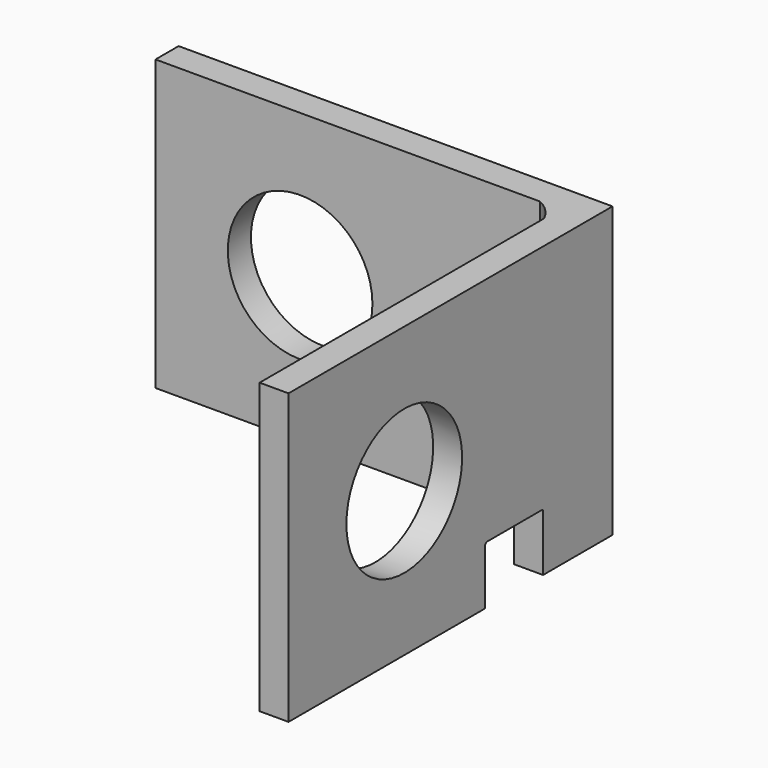
from build123d import *

# Parameters (mm, degrees)
F0_W      = 30
F0_H      = 20
F1_DEPTH  = 2
F2_R      = 5
F3_DEPTH  = 25
F4_W      = 5
F4_H      = 4
F5_DEPTH  = 2
F6_W      = 5
F6_H      = 4
F7_DEPTH  = 25
F8_R      = 5
F9_DEPTH  = 25
F11_DEPTH = 20
F13_DEPTH = 2
F15_DEPTH = 2


with BuildPart() as f1:
    # F0 (on Front) → F1 (new body)
    with BuildSketch(Plane.XZ):
        with Locations((15, -10)):
            Rectangle(F0_W, F0_H)
    extrude(amount=F1_DEPTH)

    # F2 (on face) → F3 (cut)
    with BuildSketch(Plane.XZ.offset(2)):
        with Locations((10, -10)):
            Circle(F2_R)
    extrude(amount=-F3_DEPTH, mode=Mode.SUBTRACT)

    # F4 (on face) → F5 (join)
    with BuildSketch(Plane.YZ.offset(30)):
        Polygon((-3, -20), (-2, -20), (-2, 0), (-28, 0), (-28, -20), (-8, -20), (-8, -16), (-3, -16), align=None)
        with Locations((-5.5, -18)):
            Rectangle(F4_W, F4_H)
    extrude(amount=-F5_DEPTH)

    # F6 (on face) → F7 (cut)
    with BuildSketch(Plane.YZ.offset(30)):
        with Locations((-8.5, -18)):
            Rectangle(F6_W, F6_H)
    extrude(amount=-F7_DEPTH, mode=Mode.SUBTRACT)

    # F8 (on face) → F9 (cut)
    with BuildSketch(Plane(origin=(28, 0, 0), x_dir=(0, -1, 0), z_dir=(-1, 0, 0))):
        with Locations((18, -10)):
            Circle(F8_R)
    extrude(amount=-F9_DEPTH, mode=Mode.SUBTRACT)

    # F10 (on face) → F11 (join)
    with BuildSketch(Plane(origin=(0, 0, -20), x_dir=(1, 0, 0), z_dir=(0, 0, -1))):
        with BuildLine():
            ThreePointArc((28, 6), (27.414214, 2.585786), (24, 2))
            Line((24, 2), (24, 0))
            Line((24, 0), (30, 0))
            Line((30, 0), (30, 6))
            Line((30, 6), (28, 6))
        make_face()
    extrude(amount=-F11_DEPTH)

    # F12 (on face) → F13 (join)
    with BuildSketch(Plane(origin=(28, 0, 0), x_dir=(0, -1, 0), z_dir=(-1, 0, 0))):
        Polygon((11, -16), (10.881885, -16), (11, -16.118115), align=None)
    extrude(amount=-F13_DEPTH)

    # F14 (on face) → F15 (join)
    with BuildSketch(Plane(origin=(28, 0, 0), x_dir=(0, -1, 0), z_dir=(-1, 0, 0))):
        Polygon((6.06307, -16), (6, -16), (6, -16.06307), align=None)
    extrude(amount=-F15_DEPTH)


solid = f1.part
